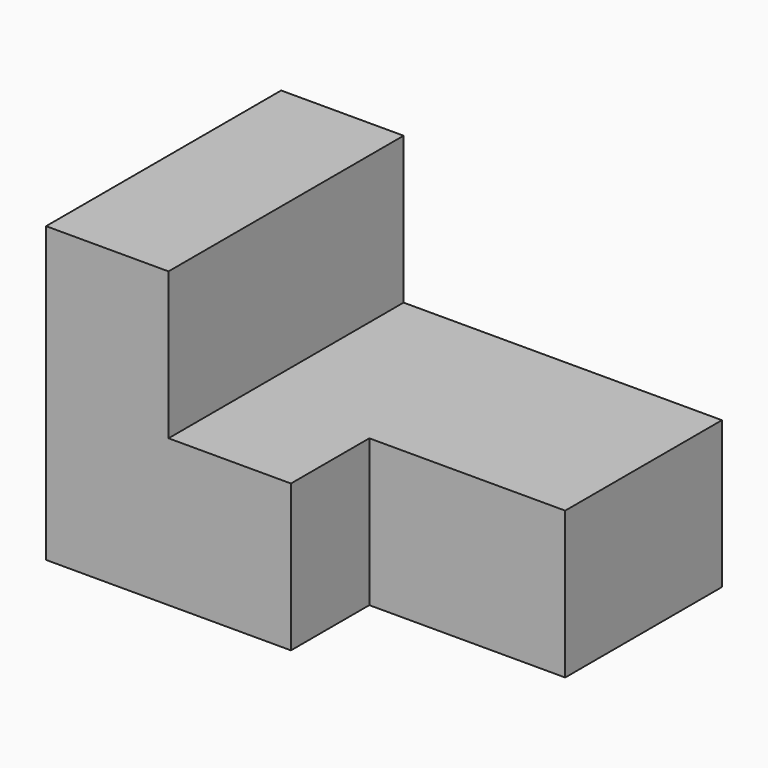
from build123d import *

# Parameters (mm, degrees)
F0_W     = 228.6
F0_H     = 152.4
F1_DEPTH = 76.2
F2_W     = 165.1
F2_H     = 76.2
F3_DEPTH = 152.401
F4_W     = 101.6
F4_H     = 76.2
F5_DEPTH = 50.8


with BuildPart() as f1:
    # F0 (on Front) → F1 (new body, symmetric)
    with BuildSketch(Plane.XZ):
        Rectangle(F0_W, F0_H)
    extrude(amount=F1_DEPTH, both=True)

    # F2 (on face) → F3 (cut, through all)
    with BuildSketch(Plane.XZ.offset(76.2)):
        with Locations((31.75, 38.1)):
            Rectangle(F2_W, F2_H)
    extrude(amount=-F3_DEPTH, mode=Mode.SUBTRACT)

    # F4 (on face) → F5 (cut)
    with BuildSketch(Plane.XZ.offset(76.2)):
        with Locations((63.5, -38.1)):
            Rectangle(F4_W, F4_H)
    extrude(amount=-F5_DEPTH, mode=Mode.SUBTRACT)


solid = f1.part
